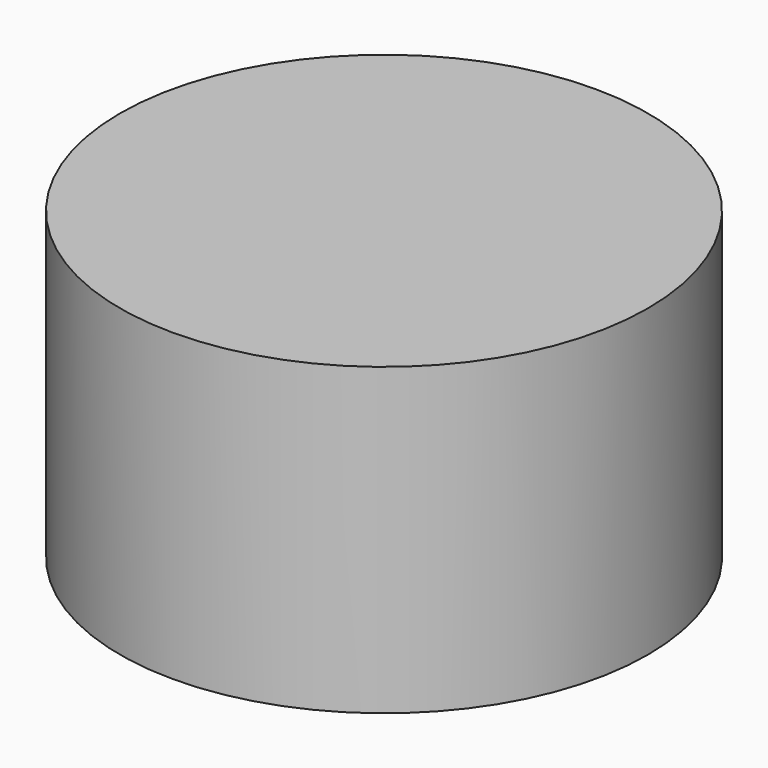
from build123d import *

# Parameters (mm, degrees)
CYLINDER_R     = 58
CYLINDER_DEPTH = 67


with BuildPart() as part:
    # Cylinder → Cylinder (join)
    with BuildSketch(Plane.XY):
        Circle(CYLINDER_R)
    extrude(amount=CYLINDER_DEPTH)


solid = part.part
